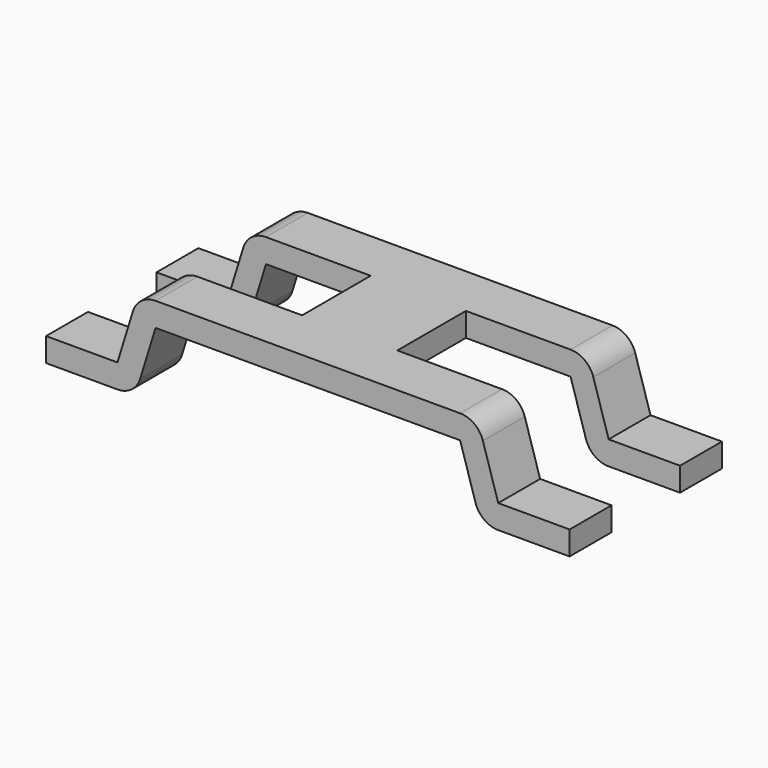
from build123d import *

# Parameters (mm, degrees)
PAD024_DEPTH         = 2
SKETCH118_W          = 5
SKETCH118_H          = 1.8
POCKET028_DEPTH      = 23.716818
POCKET028_DEPTH_BACK = 25.616818


with BuildPart() as part:
    # Sketch119 → Pad024 (new body, symmetric)
    with BuildSketch(Plane.XZ):
        with BuildLine():
            Line((0, 1.9), (3.2, 1.9))
            ThreePointArc((3.677897, 1.547019), (3.497061, 1.802188), (3.2, 1.9))
            Line((4, 0.5), (3.677897, 1.547019))
            Line((4, 0.5), (5.5, 0.5))
            Line((5.5, 0.5), (5.5, 0))
            Line((5.5, 0), (4, 0))
            ThreePointArc((3.522103, 0.352981), (3.702939, 0.097812), (4, 0))
            Line((3.2, 1.4), (3.522103, 0.352981))
            Line((3.2, 1.4), (0, 1.4))
            Line((0, 1.4), (0, 1.9))
        make_face()
    pad024 = extrude(amount=PAD024_DEPTH, both=True)

    # Mirrored020: Pad024 across YZ
    add(pad024.mirror(Plane.YZ))

    # Sketch118 → Pocket028 (cut, two sides)
    with BuildSketch(Plane.XY) as pocket028_sk:
        with Locations((3.5, 0)):
            Rectangle(SKETCH118_W, SKETCH118_H)
    pocket028 = extrude(amount=-POCKET028_DEPTH, mode=Mode.SUBTRACT) + extrude(pocket028_sk.sketch, amount=POCKET028_DEPTH_BACK, mode=Mode.SUBTRACT)

    # Mirrored003: Pocket028 across YZ
    add(pocket028.mirror(Plane.YZ), mode=Mode.SUBTRACT)


with BuildPart() as part_1:
    # Body033 placement: moved
    add(part.part.moved(Location((0, 12.65, 0))))


solid = part_1.part
